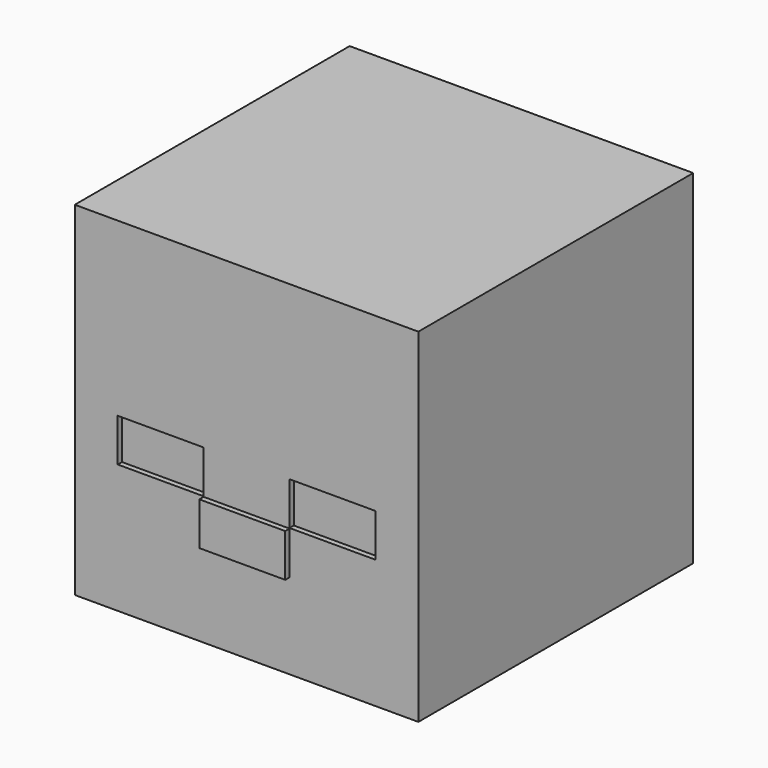
from build123d import *

# Parameters (mm, degrees)
F0_W     = 64
F0_H     = 64
F1_DEPTH = 64
F2_W     = 16
F2_H     = 8
F3_DEPTH = 1
F4_DEPTH = 1
F5_W     = 16.1
F5_H     = 8.1
F6_DEPTH = 4


with BuildPart() as f1:
    # F0 (on Top) → F1 (new body)
    with BuildSketch(Plane.XY):
        Rectangle(F0_W, F0_H)
    extrude(amount=F1_DEPTH)

    # F2 (on face) → F3 (join)
    with BuildSketch(Plane.XZ.offset(32)):
        with Locations((0, 19.9)):
            Rectangle(F2_W, F2_H)
    extrude(amount=F3_DEPTH)

    # F2 (on face) → F4 (cut)
    with BuildSketch(Plane.XZ.offset(32)):
        with Locations((-16, 28)):
            Rectangle(F2_W, F2_H)
        with Locations((16, 28)):
            Rectangle(F2_W, F2_H)
    extrude(amount=-F4_DEPTH, mode=Mode.SUBTRACT)

    # F5 (on face) → F6 (cut)
    with BuildSketch(Plane(origin=(0, 0, 0), x_dir=(1, 0, 0), z_dir=(0, 0, -1))):
        Rectangle(F5_W, F5_H)
    extrude(amount=-F6_DEPTH, mode=Mode.SUBTRACT)


solid = f1.part
